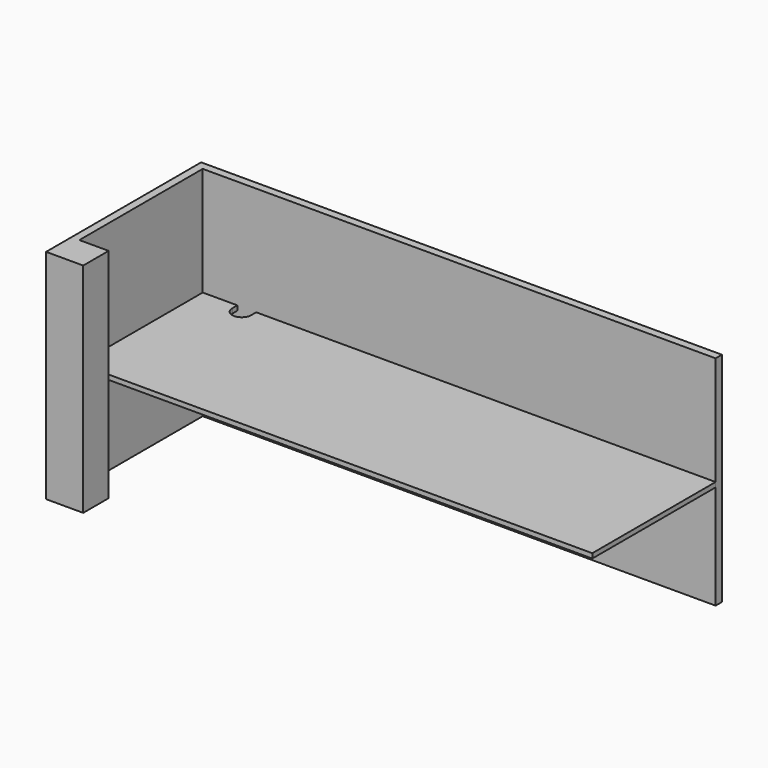
from build123d import *

# Parameters (mm, degrees)
F1_DEPTH = 15
F3_DEPTH = 346


with BuildPart() as f1:
    # F0 (on Top) → F1 (new body)
    with BuildSketch(Plane.XY):
        with BuildLine():
            Line((-705, 245), (-815, 245))
            Line((-815, 245), (-815, -245))
            Line((-815, -245), (815, -245))
            Line((815, -245), (815, 245))
            Line((815, 245), (-645, 245))
            Line((-645, 245), (-645, 225))
            ThreePointArc((-645, 225), (-675, 195), (-705, 225))
            Line((-705, 225), (-705, 245))
        make_face()
    extrude(amount=-F1_DEPTH)


with BuildPart() as f3:
    # F2 (on face) → F3 (new body, symmetric)
    with BuildSketch(Plane.XY):
        Polygon((-722, -245), (-815, -245), (-815, 245), (-705, 245), (-645, 245), (815, 245), (815, 270), (-840, 270), (-840, -346), (-722, -346), align=None)
    extrude(amount=F3_DEPTH, both=True)


solid = Compound([f1.part, f3.part])
